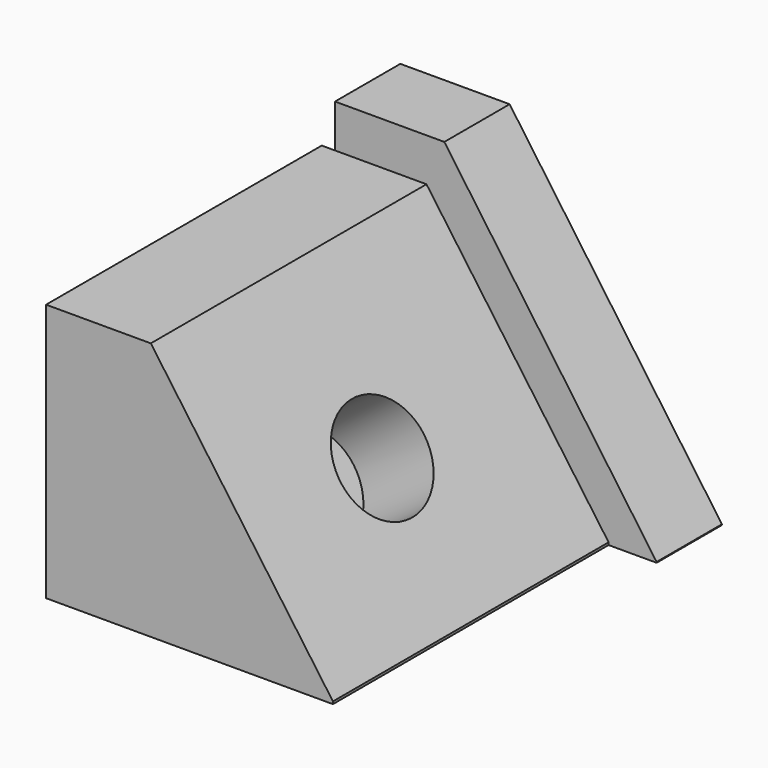
from build123d import *

# Parameters (mm, degrees)
F0_W     = 94.8279574513
F0_H     = 24.0764599293
F1_DEPTH = 88.9
F3_DEPTH = 49.022
F4_W     = 84.5879163432
F4_H     = 101.6
F5_DEPTH = 76.2
F7_DEPTH = 101.6
F8_R     = 15.3482733218
F9_DEPTH = 25.4


with BuildPart() as f1:
    # F0 (on Top) → F1 (new body)
    with BuildSketch(Plane.XY):
        with Locations((-47.4139787257, 12.0382299647)):
            Rectangle(F0_W, F0_H)
    extrude(amount=F1_DEPTH)

    # F2 (on face) → F3 (cut)
    with BuildSketch(Plane.XZ):
        Polygon((0, 88.9), (-62.5919832129, 88.9), (0, 0.2280238973), align=None)
    extrude(amount=-F3_DEPTH, mode=Mode.SUBTRACT)

    # F4 (on Top) → F5 (join)
    with BuildSketch(Plane.XY):
        with Locations((-56.447530406, -50.8)):
            Rectangle(F4_W, F4_H)
    extrude(amount=F5_DEPTH)

    # F6 (on face) → F7 (cut)
    with BuildSketch(Plane.XZ.offset(101.6)):
        Polygon((-14.1535722344, 76.2), (-67.8575116148, 76.2), (-14.1535722344, 0.7241950249), align=None)
    extrude(amount=-F7_DEPTH, mode=Mode.SUBTRACT)

    # F8 (on face) → F9 (cut)
    with BuildSketch(Plane(origin=(-9.054237048, 0, -6.4424380465), x_dir=(0, 1, 0), z_dir=(0.814790835, 0, 0.5797550304))):
        with Locations((-52.3036755621, 51.7632775009)):
            Circle(F8_R)
    extrude(amount=-F9_DEPTH, mode=Mode.SUBTRACT)


solid = f1.part
